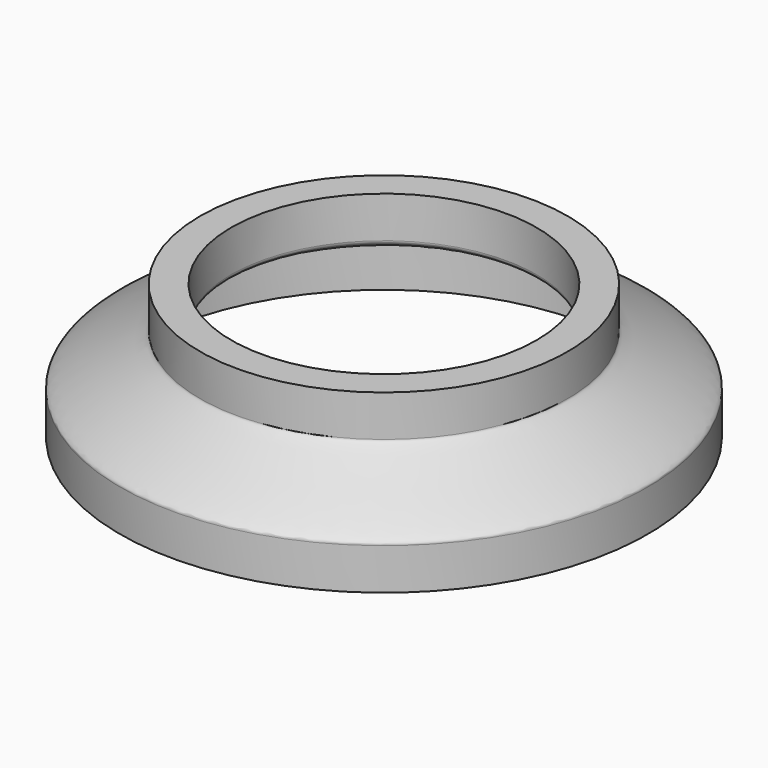
from build123d import *


with BuildPart() as f1:
    # F0 (on Front) → F1 (revolve)
    with BuildSketch(Plane.XZ):
        with BuildLine():
            Line((-25.5, 4.000665223), (-25.5, 0.000665223))
            Line((-25.5, 0.000665223), (-24, 0.000665223))
            Line((-24, 0.000665223), (-24, 4.000665223))
            add(Edge.make_bspline(
                [(-14.75, 9.0000554125), (-14.7498478162, 8.9790042563), (-14.5819417468, 8.1571602932), (-24.2245944145, 4.5685211878), (-24, 4.0775702806), (-24, 4.000665223)],
                knots=[0, 0, 0, 0, 0.1472349086, 0.8728652968, 1, 1, 1, 1], degree=3))
            Line((-14.75, 9.0000554125), (-14.75, 13.0000554125))
            Line((-14.75, 13.0000554125), (-17.75, 13.0000554125))
            Line((-17.75, 13.0000554125), (-17.75, 9.0000554125))
            add(Edge.make_bspline(
                [(-17.75, 9.0000554125), (-17.7506663859, 8.9728591273), (-17.6144972198, 8.5106069443), (-25.7362839034, 4.6182240272), (-25.4969472736, 4.0633681762), (-25.5, 4.000665223)],
                knots=[0, 0, 0, 0, 0.1214853131, 0.852851879, 1, 1, 1, 1], degree=3))
        make_face()
    revolve(axis=Axis((0, 0, 6.5), (0, 0, 1)))


solid = f1.part
